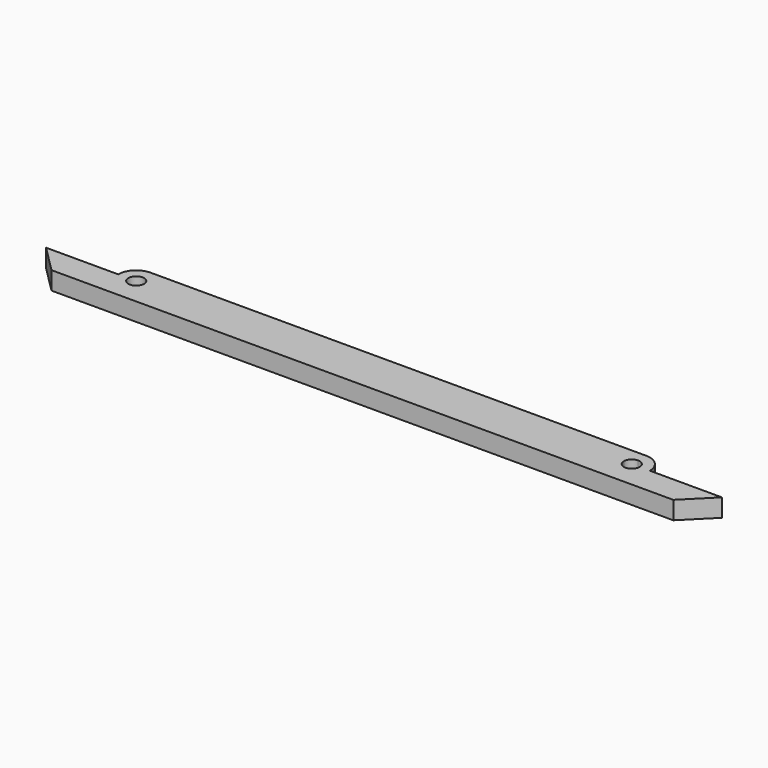
from build123d import *

# Parameters (mm, degrees)
F0_R     = 1.75
F1_DEPTH = 4
F3_DEPTH = 4


with BuildPart() as f1:
    # F0 (on Top) → F1 (new body)
    with BuildSketch(Plane.XY):
        with BuildLine():
            Line((51, 0), (0, 0))
            Line((0, 0), (-51, 0))
            ThreePointArc((-51, 0), (-55, -4), (-59, 0))
            Line((-59, 0), (-69, 0))
            Line((-69, 0), (-75, 0))
            Line((-75, 0), (-69, -6))
            Line((-69, -6), (69, -6))
            Line((69, -6), (75, 0))
            Line((75, 0), (69, 0))
            Line((69, 0), (59, 0))
            ThreePointArc((59, 0), (55, 4), (51, 0))
        make_face()
        with Locations((55, 0)):
            Circle(F0_R, mode=Mode.SUBTRACT)
        with BuildLine():
            ThreePointArc((-59, 0), (-55, -4), (-51, 0))
            ThreePointArc((-51, 0), (-55, 4), (-59, 0))
        make_face()
        with Locations((-55, 0)):
            Circle(F0_R, mode=Mode.SUBTRACT)
    extrude(amount=F1_DEPTH)

    # F2 (on Top) → F3 (join)
    with BuildSketch(Plane.XY):
        with BuildLine():
            Line((-53.25, 0), (0, 0))
            Line((0, 0), (53.25, 0))
            ThreePointArc((53.25, 0), (53.762563, 1.237437), (55, 1.75))
            Line((55, 1.75), (55, 4))
            Line((55, 4), (-55, 4))
            Line((-55, 4), (-55, 1.75))
            ThreePointArc((-55, 1.75), (-53.762563, 1.237437), (-53.25, 0))
        make_face()
    extrude(amount=F3_DEPTH)


solid = f1.part
